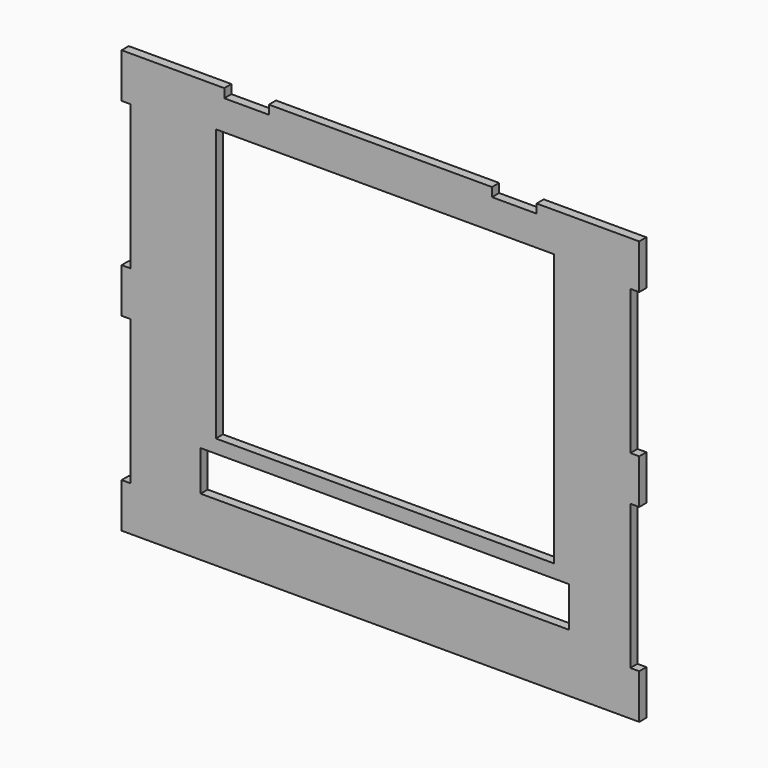
from build123d import *

# Parameters (mm, degrees)
PAD_DEPTH       = 10
SKETCH001_W     = 379
SKETCH001_H     = 305
SKETCH001_W_2   = 413
SKETCH001_H_2   = 45
POCKET_DEPTH    = 10.001
SKETCH002_W     = 50
SKETCH002_H     = 10
POCKET001_DEPTH = 10.001


with BuildPart() as part:
    # Sketch → Pad (new body)
    with BuildSketch(Plane.XZ):
        Polygon((0, 0), (560, 0), (570, 0), (570, 50), (560, 50), (560, 212), (570, 212), (570, 262), (560, 262), (560, 424), (570, 424), (570, 474), (560, 474), (0, 474), (-10, 474), (-10, 424), (0, 424), (0, 262), (-10, 262), (-10, 212), (0, 212), (0, 50), (-10, 50), (-10, 0), align=None)
    extrude(amount=PAD_DEPTH)

    # Sketch001 → Pocket (cut, through all)
    with BuildSketch(Plane.XZ.offset(10)):
        with Locations((285, 277.802533)):
            Rectangle(SKETCH001_W, SKETCH001_H)
        with Locations((285, 87.802533)):
            Rectangle(SKETCH001_W_2, SKETCH001_H_2)
    extrude(amount=-POCKET_DEPTH, mode=Mode.SUBTRACT)

    # Sketch002 → Pocket001 (cut, through all)
    with BuildSketch(Plane.XZ.offset(10)):
        with Locations((130, 469)):
            Rectangle(SKETCH002_W, SKETCH002_H)
        with Locations((430, 469)):
            Rectangle(SKETCH002_W, SKETCH002_H)
    extrude(amount=-POCKET001_DEPTH, mode=Mode.SUBTRACT)


solid = part.part
